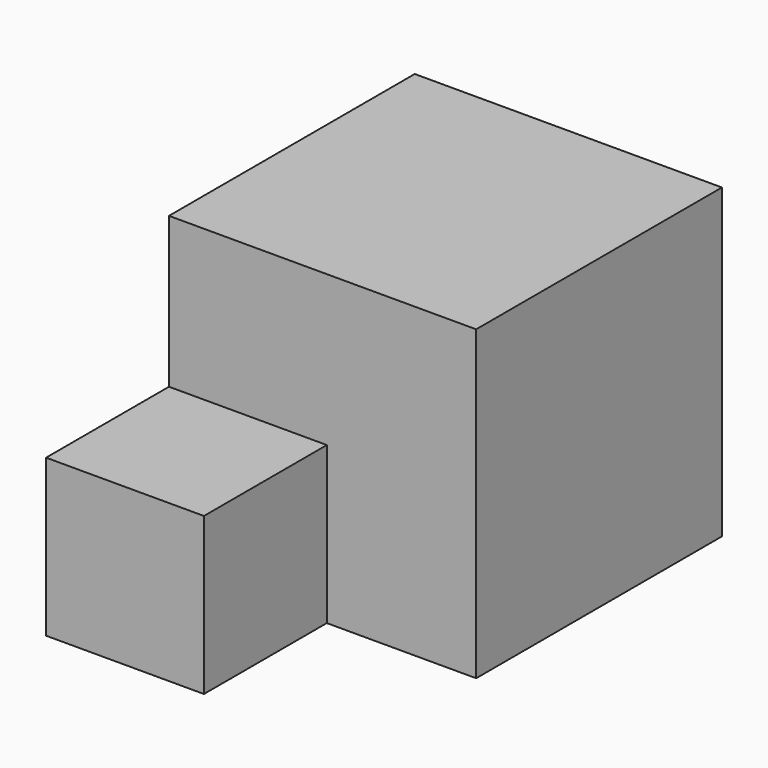
from build123d import *

# Parameters (mm, degrees)
F0_W     = 50.8
F0_H     = 50.8
F1_DEPTH = 50.8
F2_W     = 26.1030352294
F2_H     = 25.92160739
F3_DEPTH = 50.8
F4_DEPTH = 25.4


with BuildPart() as f1:
    # F0 (on Front) → F1 (new body)
    with BuildSketch(Plane.XZ):
        with Locations((-25.4, 25.4)):
            Rectangle(F0_W, F0_H)
    extrude(amount=F1_DEPTH)

    # F2 (on face) → F3 (join)
    with BuildSketch(Plane.XZ.offset(50.8)):
        with Locations((-37.7484823853, 12.960803695)):
            Rectangle(F2_W, F2_H)
    extrude(amount=F3_DEPTH)

    # F4 (cut): a face of the model
    f4_faces = [f1.faces().sort_by_distance(p)[0] for p in [
        (-37.7484823853, -101.6, 12.960803695),
    ]]
    extrude(f4_faces, amount=-F4_DEPTH, mode=Mode.SUBTRACT)


solid = f1.part
